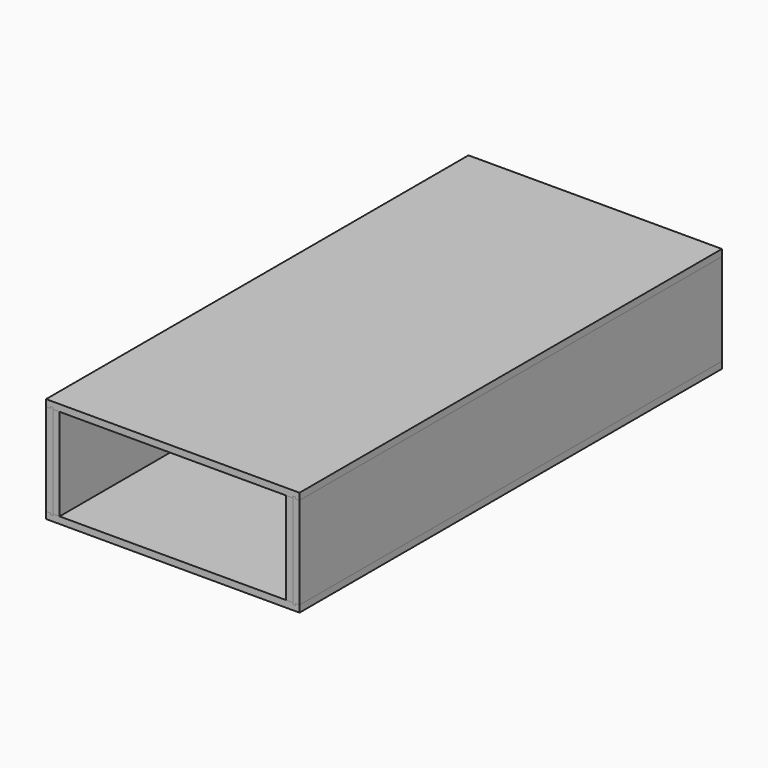
from build123d import *

# Parameters (mm, degrees)
F1_DEPTH = 1250
F2_DEPTH = 1250
F3_DEPTH = 1250
F4_DEPTH = 1250
F0_W     = 16
F0_H     = 218
F5_DEPTH = 1234
F6_DEPTH = 1234
F8_W     = 568
F8_H     = 218
F9_DEPTH = 16


with BuildPart() as f1:
    # F0 (on Front) → F1 (new body)
    with BuildSketch(Plane.XZ):
        Polygon((290, -109), (300, -109), (300, 109), (290, 109), (290, 113), (284, 113), (284, 109), (284, -109), (284, -113), (290, -113), align=None)
    extrude(amount=-F1_DEPTH)


with BuildPart() as f2:
    # F0 (on Front) → F2 (new body)
    with BuildSketch(Plane.XZ):
        Polygon((290, 109), (300, 109), (300, 125), (-300, 125), (-300, 109), (-290, 109), (-290, 113), (-284, 113), (-284, 109), (-268, 109), (268, 109), (284, 109), (284, 113), (290, 113), align=None)
    extrude(amount=-F2_DEPTH)


with BuildPart() as f3:
    # F0 (on Front) → F3 (new body)
    with BuildSketch(Plane.XZ):
        Polygon((-300, 109), (-300, -109), (-290, -109), (-290, -113), (-284, -113), (-284, -109), (-284, 109), (-284, 113), (-290, 113), (-290, 109), align=None)
    extrude(amount=-F3_DEPTH)


with BuildPart() as f4:
    # F0 (on Front) → F4 (new body)
    with BuildSketch(Plane.XZ):
        Polygon((-300, -125), (300, -125), (300, -109), (290, -109), (290, -113), (284, -113), (284, -109), (268, -109), (-268, -109), (-284, -109), (-284, -113), (-290, -113), (-290, -109), (-300, -109), align=None)
    extrude(amount=-F4_DEPTH)


with BuildPart() as f5:
    # F0 (on Front) → F5 (new body)
    with BuildSketch(Plane.XZ):
        with Locations((276, 0)):
            Rectangle(F0_W, F0_H)
    extrude(amount=-F5_DEPTH)


with BuildPart() as f6:
    # F0 (on Front) → F6 (new body)
    with BuildSketch(Plane.XZ):
        with Locations((-276, 0)):
            Rectangle(F0_W, F0_H)
    extrude(amount=-F6_DEPTH)


with BuildPart() as f9:
    # F8 (on face) → F9 (new body)
    with BuildSketch(Plane(origin=(0, 1250, 0), x_dir=(-1, 0, 0), z_dir=(0, 1, 0))):
        Rectangle(F8_W, F8_H)
    extrude(amount=-F9_DEPTH)


solid = Compound([f1.part, f2.part, f3.part, f4.part, f5.part, f6.part, f9.part])
